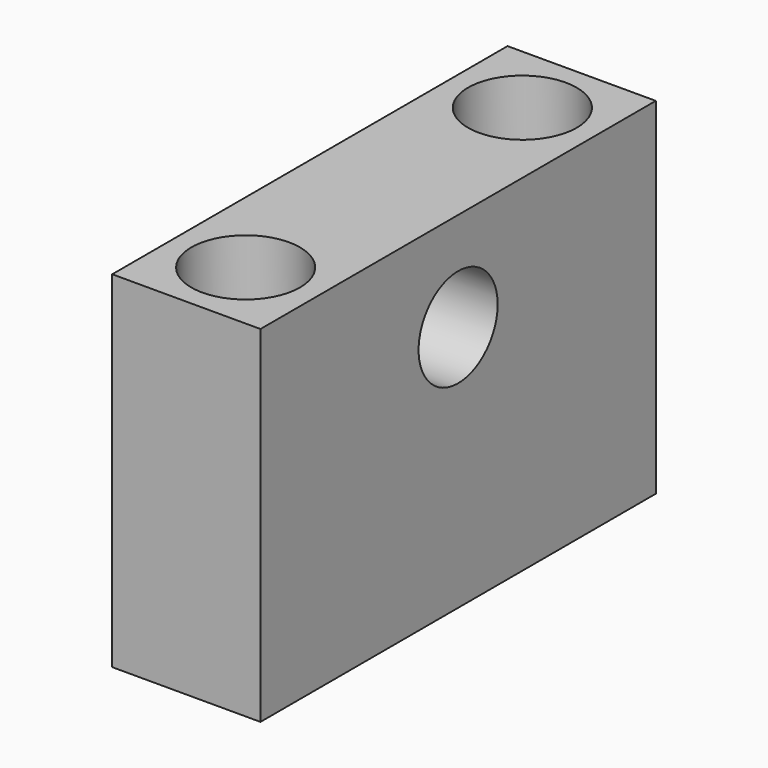
from build123d import *

# Parameters (mm, degrees)
F0_W     = 15
F0_H     = 50
F1_DEPTH = 35
F2_R     = 5
F3_DEPTH = 15
F4_R     = 3.5
F5_DEPTH = 35
F6_R     = 5.5
F7_DEPTH = 9.5


with BuildPart() as f1:
    # F0 (on Top) → F1 (new body)
    with BuildSketch(Plane.XY):
        Rectangle(F0_W, F0_H)
    extrude(amount=F1_DEPTH)

    # F2 (on face) → F3 (cut, through all)
    with BuildSketch(Plane.YZ.offset(7.5)):
        with Locations((0, 25)):
            Circle(F2_R)
    extrude(amount=-F3_DEPTH, mode=Mode.SUBTRACT)

    # F4 (on face) → F5 (cut, through all)
    with BuildSketch(Plane.XY.offset(35)):
        with Locations((0, -17.5)):
            Circle(F4_R)
        with Locations((0, 17.5)):
            Circle(F4_R)
    extrude(amount=-F5_DEPTH, mode=Mode.SUBTRACT)

    # F6 (on face) → F7 (cut)
    with BuildSketch(Plane.XY.offset(35)):
        with Locations((0, -17.5)):
            Circle(F6_R)
        with Locations((0, 17.5)):
            Circle(F6_R)
    extrude(amount=-F7_DEPTH, mode=Mode.SUBTRACT)


solid = f1.part
